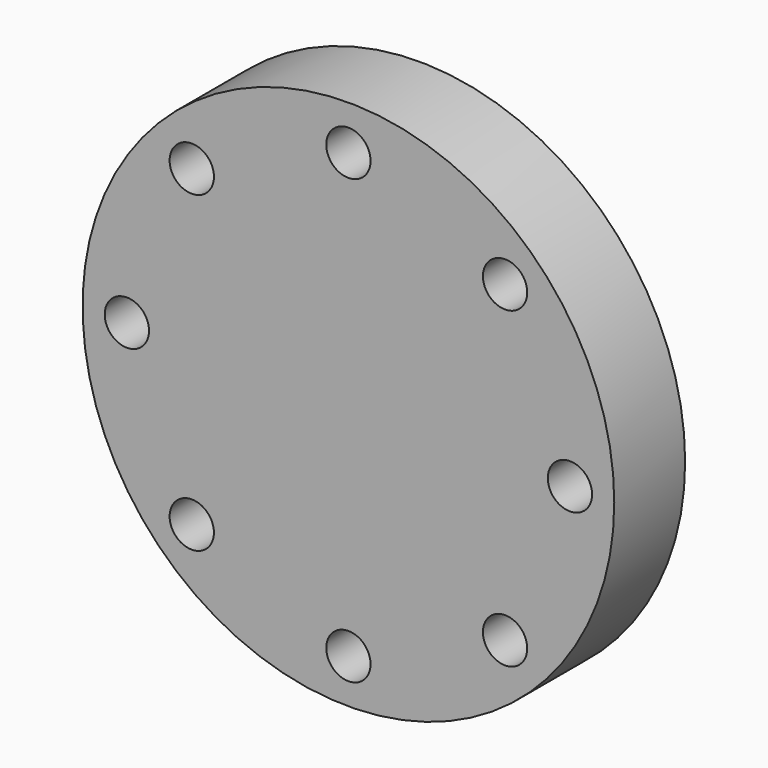
from build123d import *

# Parameters (mm, degrees)
F0_R     = 60
F0_R_2   = 5
F1_DEPTH = 20


with BuildPart() as f1:
    # F0 (on Front) → F1 (new body)
    with BuildSketch(Plane.XZ):
        Circle(F0_R)
        with Locations((-35.355339, -35.355339)):
            Circle(F0_R_2, mode=Mode.SUBTRACT)
        with Locations((0, -50)):
            Circle(F0_R_2, mode=Mode.SUBTRACT)
        with Locations((35.355339, -35.355339)):
            Circle(F0_R_2, mode=Mode.SUBTRACT)
        with Locations((-50, 0)):
            Circle(F0_R_2, mode=Mode.SUBTRACT)
        with Locations((-35.355339, 35.355339)):
            Circle(F0_R_2, mode=Mode.SUBTRACT)
        with Locations((50, 0)):
            Circle(F0_R_2, mode=Mode.SUBTRACT)
        with Locations((0, 50)):
            Circle(F0_R_2, mode=Mode.SUBTRACT)
        with Locations((35.355339, 35.355339)):
            Circle(F0_R_2, mode=Mode.SUBTRACT)
    extrude(amount=F1_DEPTH)

    # F2 (on Top) → F3 (revolve)
    with BuildSketch(Plane.XY):
        with BuildLine():
            Line((-40, 0), (0, 0))
            Line((0, 0), (0, 40))
            ThreePointArc((0, 40), (-28.284271, 28.284271), (-40, 0))
        make_face()
    revolve(axis=Axis((0, 20, 0), (0, -1, 0)))


solid = f1.part
